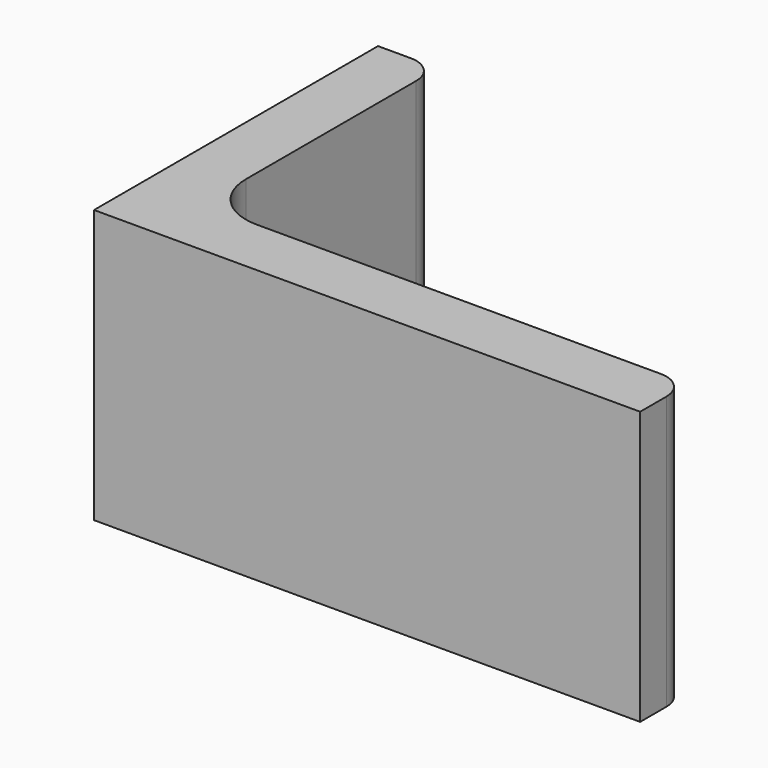
from build123d import *

# Parameters (mm, degrees)
EXTRUDE_DEPTH = 50


with BuildPart() as part:
    # Sketch → Extrude (new body)
    with BuildSketch(Plane.XY):
        with BuildLine():
            Line((0, 0), (100, 0))
            Line((100, 0), (100, 6))
            ThreePointArc((100, 6), (98.535534, 9.535534), (95, 11))
            Line((95, 11), (21, 11))
            ThreePointArc((11, 21), (13.928932, 13.928932), (21, 11))
            Line((11, 60), (11, 21))
            ThreePointArc((11, 60), (9.535534, 63.535534), (6, 65))
            Line((0, 65), (6, 65))
            Line((0, 0), (0, 65))
        make_face()
    extrude(amount=EXTRUDE_DEPTH)


solid = part.part
